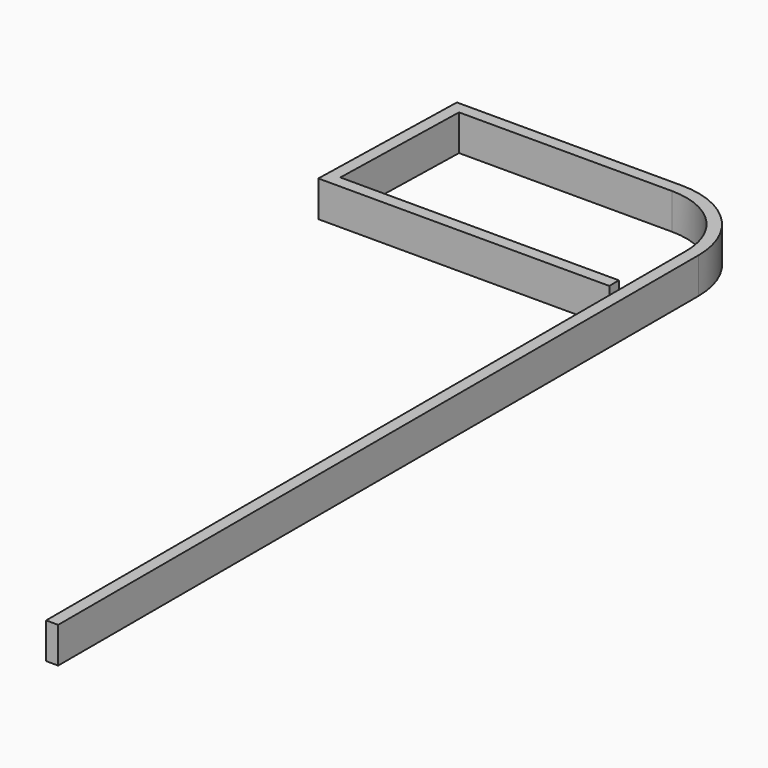
from build123d import *

# Parameters (mm, degrees)
F2_W = 0.2683359198
F2_H = 0.7966654957


with BuildPart() as f3:
    # F3: sweep along a path in F0
    with BuildLine(Plane.XY) as f3_path:
        Line((1.5875, -17.78), (1.5875, 0))
        ThreePointArc((1.5875, 0), (1.1225320151, 1.1225320151), (0, 1.5875))
        Line((0, 1.5875), (-4.72186, 1.5875))
        Line((-4.72186, 1.5875), (-4.8006, -1.5875))
        Line((-4.8006, -1.5875), (0, -1.5875))
        Line((0, -1.5875), (1.3767013472, -1.5875))
    # F2 (on plane+point) → F3 (sweep)
    with BuildSketch(Plane.XZ.offset(17.78)):
        with Locations((1.7317127204, 0)):
            Rectangle(F2_W, F2_H)
    sweep(path=f3_path.line, transition=Transition.RIGHT)


solid = f3.part
